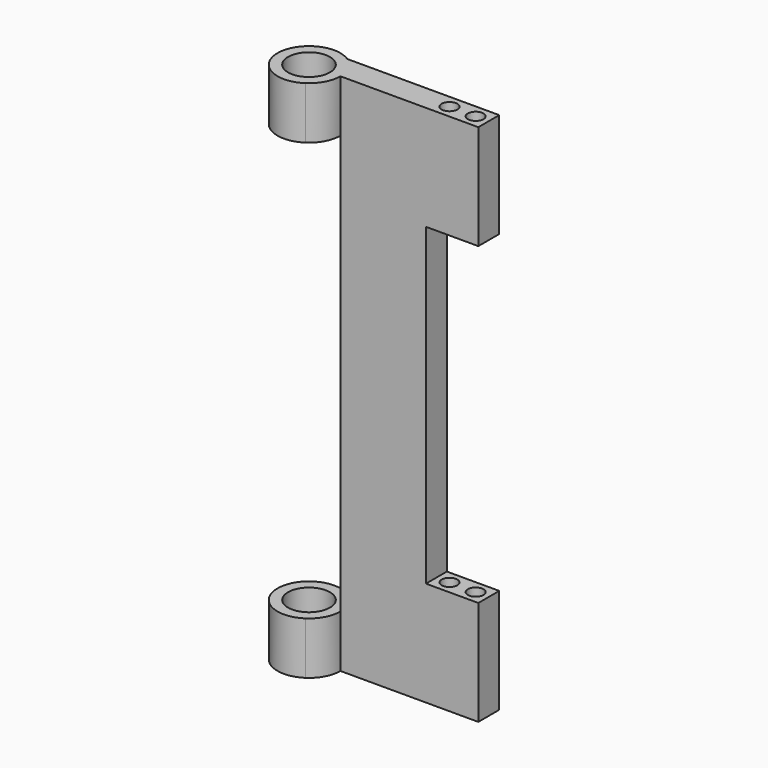
from build123d import *

# Parameters (mm, degrees)
F0_R     = 5.08
F1_DEPTH = 12.7
F0_W     = 6.35
F0_H     = 6.35
F0_R_2   = 1.905
F2_DEPTH = 25.4
F3_DEPTH = 63.5


with BuildPart() as f1:
    # F0 (on Top) → F1 (new body)
    with BuildSketch(Plane.XY):
        with BuildLine():
            ThreePointArc((-57.1493167461, -20.6207571715), (-68.9814302299, -26.9707571715), (-57.1493167461, -33.3207571715))
            ThreePointArc((-57.1493167461, -33.3207571715), (-54.6472398563, -30.5740955718), (-53.7414302299, -26.9707571715))
            ThreePointArc((-53.7414302299, -26.9707571715), (-54.6472398563, -23.3674187712), (-57.1493167461, -20.6207571715))
        make_face()
        with Locations((-61.3614302299, -26.9707571715)):
            Circle(F0_R, mode=Mode.SUBTRACT)
    extrude(amount=F1_DEPTH)

    # F0 (on Top) → F2 (join)
    with BuildSketch(Plane.XY):
        with BuildLine():
            Line((-53.7414302299, -26.9707571715), (-32.9907516612, -26.9707571715))
            Line((-32.9907516612, -26.9707571715), (-32.9907516612, -20.6207571715))
            Line((-32.9907516612, -20.6207571715), (-57.1493167461, -20.6207571715))
            ThreePointArc((-57.1493167461, -20.6207571715), (-54.6472398563, -23.3674187712), (-53.7414302299, -26.9707571715))
        make_face()
        with Locations((-23.4657516612, -23.7957571715)):
            Rectangle(F0_W, F0_H)
        with Locations((-23.4657516612, -23.7957571715)):
            Circle(F0_R_2, mode=Mode.SUBTRACT)
        with Locations((-29.8157516612, -23.7957571715)):
            Rectangle(F0_W, F0_H)
        with Locations((-29.8157516612, -23.7957571715)):
            Circle(F0_R_2, mode=Mode.SUBTRACT)
    extrude(amount=F2_DEPTH)

    # F0 (on Top) → F3 (join)
    with BuildSketch(Plane.XY):
        with BuildLine():
            Line((-53.7414302299, -26.9707571715), (-32.9907516612, -26.9707571715))
            Line((-32.9907516612, -26.9707571715), (-32.9907516612, -20.6207571715))
            Line((-32.9907516612, -20.6207571715), (-57.1493167461, -20.6207571715))
            ThreePointArc((-57.1493167461, -20.6207571715), (-54.6472398563, -23.3674187712), (-53.7414302299, -26.9707571715))
        make_face()
    extrude(amount=F3_DEPTH)

    # F4: F1 across face


with BuildPart() as f1_1:
    add(f1.part)
    add(f1.part.mirror(Plane(origin=(-43.8925069162, -23.7183782797, 63.5), x_dir=(1, 0, 0), z_dir=(0, 0, 1))))


solid = f1_1.part
